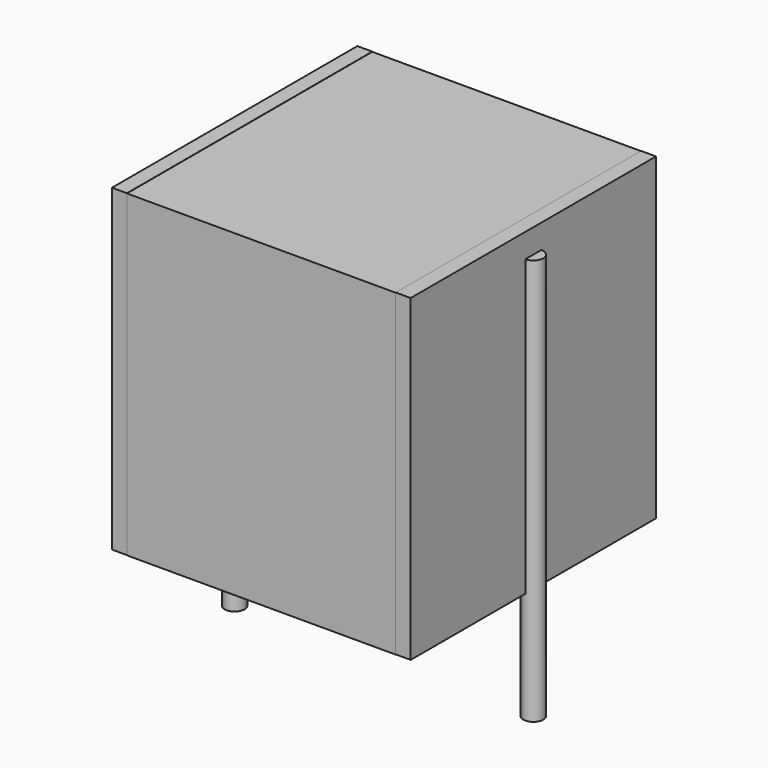
from build123d import *

# Parameters (mm, degrees)
SKETCH_W          = 6.75
SKETCH_H          = 7.7
PAD_DEPTH         = 8
SKETCH001_R       = 0.25
PAD001_DEPTH      = 7
PAD001_DEPTH_BACK = 3.2
SKETCH002_W       = 0.375
SKETCH002_H       = 7.7
PAD002_DEPTH      = 8


with BuildPart() as pad:
    # Sketch → Pad (new body)
    with BuildSketch(Plane.XY.offset(0.1)):
        with Locations((3.75, 0)):
            Rectangle(SKETCH_W, SKETCH_H)
    extrude(amount=PAD_DEPTH)


with BuildPart() as pad001:
    # Sketch001 → Pad001 (new body, two sides)
    with BuildSketch(Plane.XY.offset(0.5)) as pad001_sk:
        Circle(SKETCH001_R)
        with Locations((7.5, 0)):
            Circle(SKETCH001_R)
    extrude(amount=PAD001_DEPTH)
    extrude(pad001_sk.sketch, amount=-PAD001_DEPTH_BACK)


with BuildPart() as pad002:
    # Sketch002 → Pad002 (new body)
    with BuildSketch(Plane.XY.offset(0.105)):
        with Locations((0.1875, 0)):
            Rectangle(SKETCH002_W, SKETCH002_H)
        with Locations((7.3125, 0)):
            Rectangle(SKETCH002_W, SKETCH002_H)
    extrude(amount=PAD002_DEPTH)


solid = Compound([pad.part, pad001.part, pad002.part])
